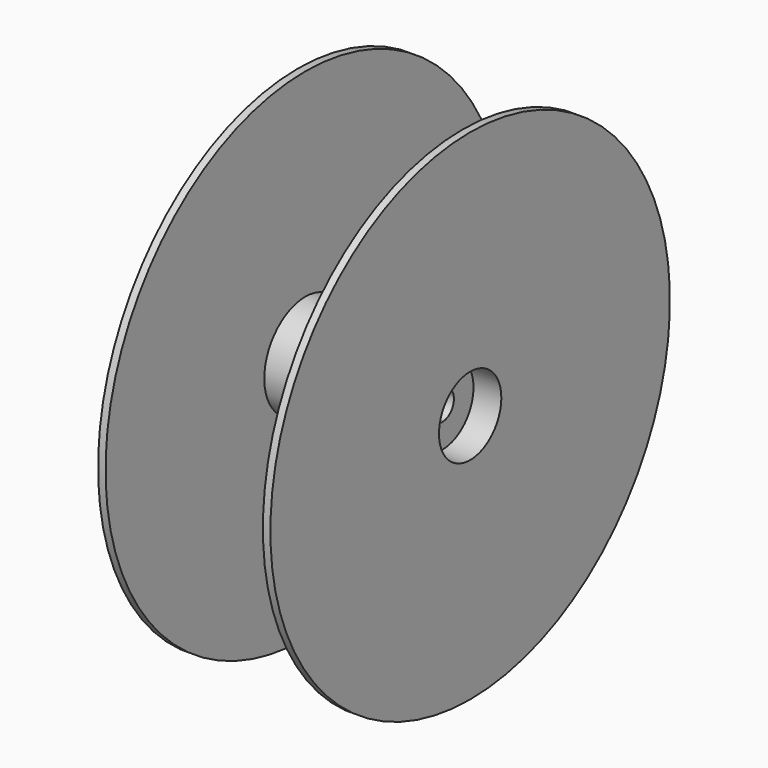
from build123d import *


with BuildPart() as f1:
    # F0 (on Front) → F1 (revolve)
    with BuildSketch(Plane.XZ):
        Polygon((0, 5.806352), (0, 20.549649), (-31.5, 20.549649), (-31.5, 100), (-34.5, 100), (-34.5, 15.603564), (-23.352671, 15.603564), (-23.352671, 5.806352), align=None)
        Polygon((31.5, 20.549649), (0, 20.549649), (0, 5.806352), (23.352671, 5.806352), (23.352671, 15.603564), (34.5, 15.603564), (34.5, 100), (31.5, 100), align=None)
    revolve(axis=Axis((6.947005, 0, 0), (1, 0, 0)))


solid = f1.part
